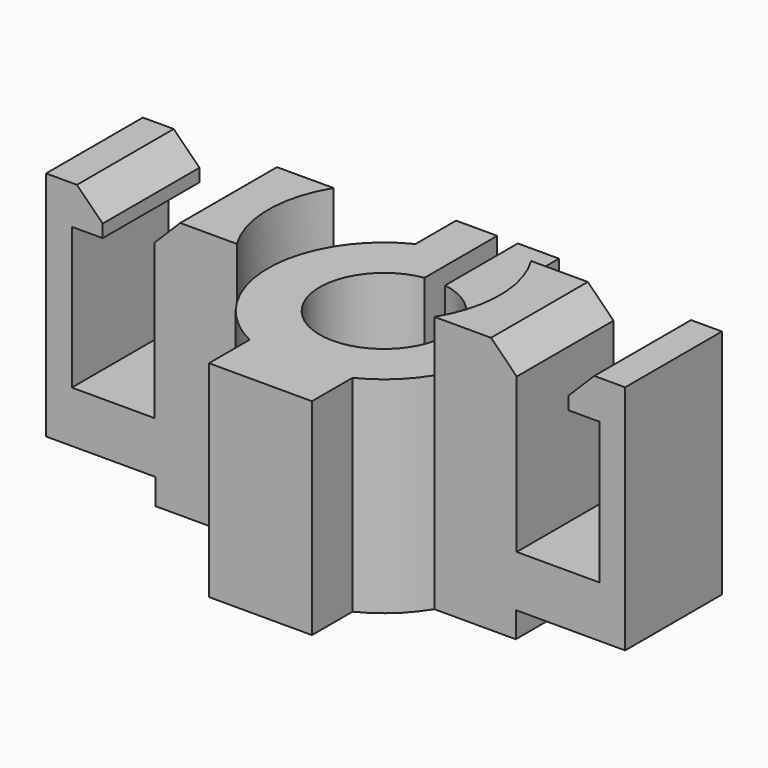
from build123d import *

# Parameters (mm, degrees)
PAD_DEPTH       = 10
SKETCH001_W     = 28.454584
SKETCH001_H     = 18.079305
SKETCH001_W_2   = 14
SKETCH001_H_2   = 12
POCKET_DEPTH    = 1
POCKET001_DEPTH = 2
POCKET002_DEPTH = 5
CHAMFER_SIZE    = 1
CHAMFER001_SIZE = 1
CHAMFER002_SIZE = 1


with BuildPart() as part:
    # Sketch → Pad (new body)
    with BuildSketch(Plane.XY):
        with BuildLine():
            Line((-11.25, 2.35), (-3.8376425055, 2.35))
            ThreePointArc((-2, 4.0311288741), (-3.0374440042, 3.3202310043), (-3.8376425055, 2.35))
            Line((-2, 4.0311288741), (-2, 6))
            Line((-2, 6), (-0.4, 6))
            Line((-0.4, 6), (-0.4, 2.4677925359))
            ThreePointArc((-0.4, 2.4677925359), (0, -2.5), (0.4, 2.4677925359))
            Line((0.4, 6), (0.4, 2.4677925359))
            Line((0.4, 6), (2, 6))
            Line((2, 6), (2, 4.0311288741))
            ThreePointArc((3.8376425055, 2.35), (3.0374440042, 3.3202310043), (2, 4.0311288741))
            Line((3.8376425055, 2.35), (11.25, 2.35))
            Line((11.25, 2.35), (11.25, -2.35))
            Line((11.25, -2.35), (3.8376425055, -2.35))
            ThreePointArc((2, -4.0311288741), (3.0374440042, -3.3202310043), (3.8376425055, -2.35))
            Line((2, -4.0311288741), (2, -6))
            Line((2, -6), (-2, -6))
            Line((-2, -6), (-2, -4.0311288741))
            ThreePointArc((-3.8376425055, -2.35), (-3.0374440042, -3.3202310043), (-2, -4.0311288741))
            Line((-3.8376425055, -2.35), (-11.25, -2.35))
            Line((-11.25, -2.35), (-11.25, 2.35))
        make_face()
    extrude(amount=PAD_DEPTH)

    # Sketch001 (on Face21 of Pad) → Pocket (cut)
    with BuildSketch(Plane(origin=(0, 0, 0), x_dir=(1, 0, 0), z_dir=(0, 0, -1))):
        with Locations((-1.003043, -0.4011775)):
            Rectangle(SKETCH001_W, SKETCH001_H)
        Rectangle(SKETCH001_W_2, SKETCH001_H_2, mode=Mode.SUBTRACT)
    extrude(amount=-POCKET_DEPTH, mode=Mode.SUBTRACT)

    # Sketch002 (on Face6 of Pocket) → Pocket001 (cut)
    with BuildSketch(Plane.XY.offset(10)):
        with BuildLine():
            ThreePointArc((-2, 4.0311288741), (-4.5, 0), (-2, -4.0311288741))
            Line((-2, -4.0311288741), (-2, -6))
            Line((-2, -6), (2, -6))
            Line((2, -6), (2, -4.0311288741))
            ThreePointArc((2, -4.0311288741), (4.5, 0), (2, 4.0311288741))
            Line((2, 6), (2, 4.0311288741))
            Line((-2, 6), (2, 6))
            Line((-2, 4.0311288741), (-2, 6))
        make_face()
    extrude(amount=-POCKET001_DEPTH, mode=Mode.SUBTRACT)

    # Sketch003 (on Face1 of Pocket001) → Pocket002 (cut)
    with BuildSketch(Plane.XZ.offset(2.35)):
        Polygon((-9.05, 10), (-9.05, 8.5), (-10.25, 8.5), (-10.25, 3), (-7.0376425055, 3), (-7.0376425055, 10), align=None)
        Polygon((9.05, 10), (9.05, 8.5), (10.25, 8.5), (10.25, 3), (7.0376425055, 3), (7.0376425055, 10), align=None)
    extrude(amount=-POCKET002_DEPTH, mode=Mode.SUBTRACT)

    # Chamfer
    chamfer_edges = [part.edges().sort_by_distance(p)[0] for p in [
        (0, -2.5, 0),
    ]]
    chamfer(chamfer_edges, length=CHAMFER_SIZE)

    # Chamfer001
    chamfer001_edges = [part.edges().sort_by_distance(p)[0] for p in [
        (-7.037643, 0, 10),
        (7.037643, 0, 10),
    ]]
    chamfer(chamfer001_edges, length=CHAMFER001_SIZE)

    # Chamfer002
    chamfer002_edges = [part.edges().sort_by_distance(p)[0] for p in [
        (-9.05, 0, 10),
        (9.05, 0, 10),
    ]]
    chamfer(chamfer002_edges, length=CHAMFER002_SIZE)


solid = part.part
